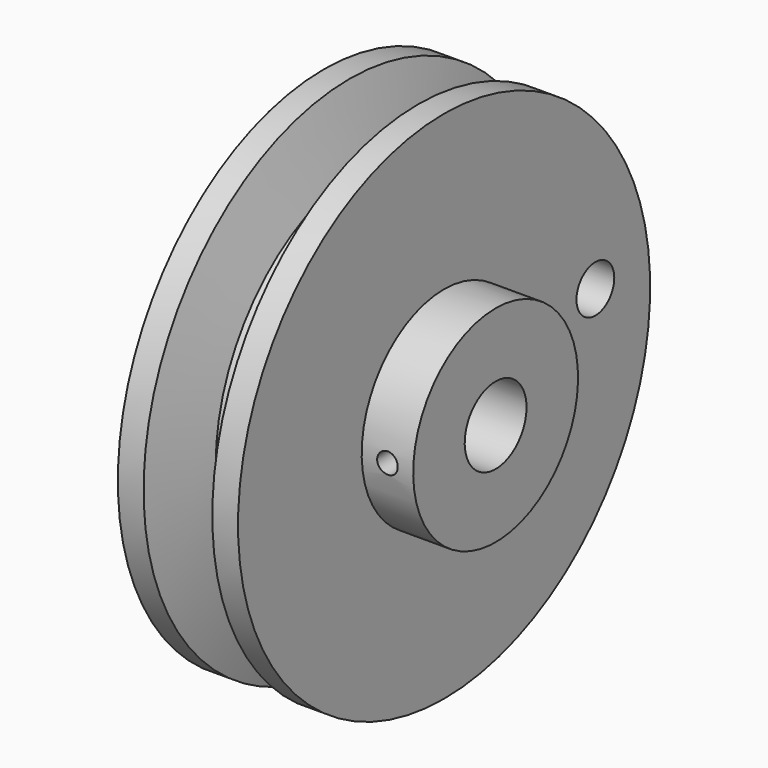
from build123d import *

# Parameters (mm, degrees)
F3_D     = 5.5
F3_DEPTH = 14
F3_TIP   = 1.6523667023
F6_D     = 2.4
F6_DEPTH = 13.4
F6_TIP   = 0.7210327428


with BuildPart() as f1:
    # F0 (on Front) → F1 (revolve)
    with BuildSketch(Plane.XZ):
        Polygon((-7, 30), (-7, 4.5), (13, 4.5), (13, 12), (7, 12), (7, 30), (4, 30), (1.9940651348, 21.9546346889), (-2.0053759773, 22), (-4, 30), align=None)
    revolve(axis=Axis((0, 0, 0), (1, 0, 0)))

    # F3
    with Locations(Plane(origin=(-7, 0, 0), x_dir=(0, -1, 0), z_dir=(-1, 0, 0))):
        with Locations((-22.0234822482, 3.0874926597)):
            Hole(F3_D / 2, depth=F3_DEPTH)
            with Locations((0, 0, -(F3_DEPTH + F3_TIP / 2))):  # 118° drill point
                Cone(0, F3_D / 2, F3_TIP, mode=Mode.SUBTRACT)

    # F6
    with Locations(Plane.XZ.offset(12)):
        with Locations((10, 0)):
            Hole(F6_D / 2, depth=F6_DEPTH)
            with Locations((0, 0, -(F6_DEPTH + F6_TIP / 2))):  # 118° drill point
                Cone(0, F6_D / 2, F6_TIP, mode=Mode.SUBTRACT)


solid = f1.part
